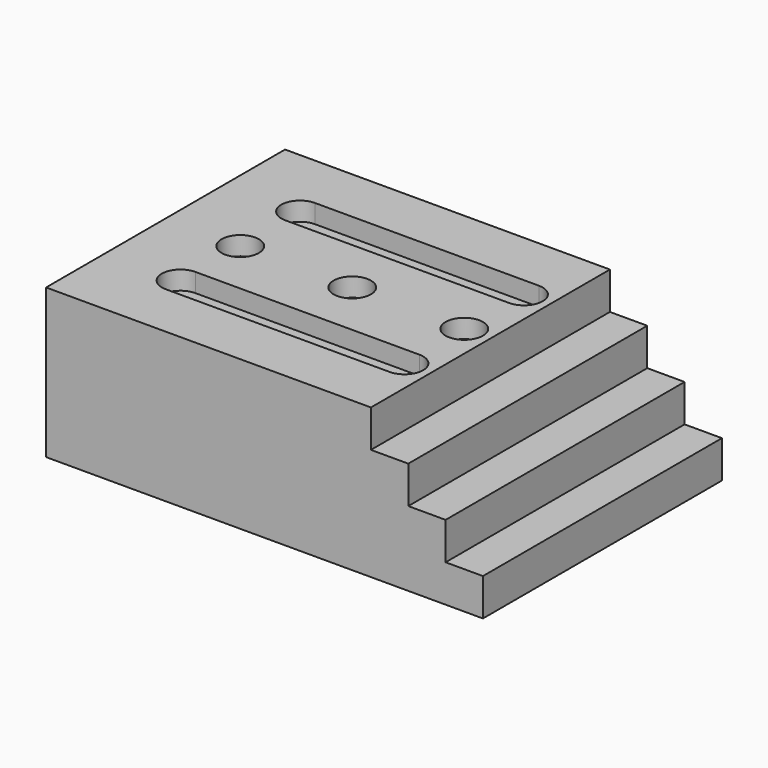
from build123d import *

# Parameters (mm, degrees)
F1_DEPTH = 101.6
F3_DEPTH = 6.35
F4_R     = 3.175
F5_DEPTH = 50.801
F6_R     = 6.35
F7_DEPTH = 6.35


with BuildPart() as f1:
    # F0 (on Front) → F1 (new body)
    with BuildSketch(Plane.XZ):
        Polygon((0, 50.8), (0, 0), (148.59, 0), (148.59, 12.7), (135.89, 12.7), (135.89, 25.4), (123.19, 25.4), (123.19, 38.1), (110.49, 38.1), (110.49, 50.8), align=None)
    extrude(amount=F1_DEPTH)

    # F2 (on face) → F3 (cut)
    with BuildSketch(Plane.XY.offset(50.8)):
        with BuildLine():
            ThreePointArc((25.4, -31.75), (29.890128, -29.890128), (31.75, -25.4))
            ThreePointArc((31.75, -25.4), (29.890128, -20.909872), (25.4, -19.05))
            ThreePointArc((25.4, -19.05), (19.05, -25.4), (25.4, -31.75))
        make_face()
        with BuildLine():
            ThreePointArc((25.4, -19.05), (29.890128, -20.909872), (31.75, -25.4))
            ThreePointArc((31.75, -25.4), (29.890128, -29.890128), (25.4, -31.75))
            Line((25.4, -31.75), (101.6, -31.75))
            ThreePointArc((101.6, -31.75), (95.25, -25.4), (101.6, -19.05))
            Line((101.6, -19.05), (25.4, -19.05))
        make_face()
        with BuildLine():
            ThreePointArc((107.95, -25.4), (106.090128, -20.909872), (101.6, -19.05))
            ThreePointArc((101.6, -19.05), (95.25, -25.4), (101.6, -31.75))
            ThreePointArc((101.6, -31.75), (106.090128, -29.890128), (107.95, -25.4))
        make_face()
        with BuildLine():
            ThreePointArc((31.75, -76.2), (29.890128, -80.690128), (25.4, -82.55))
            Line((25.4, -82.55), (101.6, -82.55))
            ThreePointArc((101.6, -82.55), (95.25, -76.2), (101.6, -69.85))
            Line((101.6, -69.85), (25.4, -69.85))
            ThreePointArc((25.4, -69.85), (29.890128, -71.709872), (31.75, -76.2))
        make_face()
        with BuildLine():
            ThreePointArc((25.4, -69.85), (19.05, -76.2), (25.4, -82.55))
            ThreePointArc((25.4, -82.55), (29.890128, -80.690128), (31.75, -76.2))
            ThreePointArc((31.75, -76.2), (29.890128, -71.709872), (25.4, -69.85))
        make_face()
        with BuildLine():
            ThreePointArc((101.6, -69.85), (95.25, -76.2), (101.6, -82.55))
            ThreePointArc((101.6, -82.55), (106.090128, -80.690128), (107.95, -76.2))
            ThreePointArc((107.95, -76.2), (106.090128, -71.709872), (101.6, -69.85))
        make_face()
    extrude(amount=-F3_DEPTH, mode=Mode.SUBTRACT)

    # F4 (on face) → F5 (cut, through all)
    with BuildSketch(Plane.XY.offset(50.8)):
        with Locations((101.6, -50.8)):
            Circle(F4_R)
        with Locations((63.5, -50.8)):
            Circle(F4_R)
        with BuildLine():
            ThreePointArc((25.4, -28.575), (27.645064, -27.645064), (28.575, -25.4))
            ThreePointArc((28.575, -25.4), (27.645064, -23.154936), (25.4, -22.225))
            ThreePointArc((25.4, -22.225), (22.225, -25.4), (25.4, -28.575))
        make_face()
        with BuildLine():
            ThreePointArc((25.4, -22.225), (27.645064, -23.154936), (28.575, -25.4))
            ThreePointArc((28.575, -25.4), (27.645064, -27.645064), (25.4, -28.575))
            Line((25.4, -28.575), (101.6, -28.575))
            ThreePointArc((101.6, -28.575), (98.425, -25.4), (101.6, -22.225))
            Line((101.6, -22.225), (25.4, -22.225))
        make_face()
        with BuildLine():
            ThreePointArc((104.775, -25.4), (103.845064, -23.154936), (101.6, -22.225))
            ThreePointArc((101.6, -22.225), (98.425, -25.4), (101.6, -28.575))
            ThreePointArc((101.6, -28.575), (103.845064, -27.645064), (104.775, -25.4))
        make_face()
        with Locations((25.4, -50.8)):
            Circle(F4_R)
        with BuildLine():
            ThreePointArc((25.4, -79.375), (27.645064, -78.445064), (28.575, -76.2))
            ThreePointArc((28.575, -76.2), (27.645064, -73.954936), (25.4, -73.025))
            ThreePointArc((25.4, -73.025), (22.225, -76.2), (25.4, -79.375))
        make_face()
        with BuildLine():
            ThreePointArc((25.4, -73.025), (27.645064, -73.954936), (28.575, -76.2))
            ThreePointArc((28.575, -76.2), (27.645064, -78.445064), (25.4, -79.375))
            Line((25.4, -79.375), (101.6, -79.375))
            ThreePointArc((101.6, -79.375), (98.425, -76.2), (101.6, -73.025))
            Line((101.6, -73.025), (25.4, -73.025))
        make_face()
        with BuildLine():
            ThreePointArc((104.775, -76.2), (103.845064, -73.954936), (101.6, -73.025))
            ThreePointArc((101.6, -73.025), (98.425, -76.2), (101.6, -79.375))
            ThreePointArc((101.6, -79.375), (103.845064, -78.445064), (104.775, -76.2))
        make_face()
    extrude(amount=-F5_DEPTH, mode=Mode.SUBTRACT)

    # F6 (on face) → F7 (cut)
    with BuildSketch(Plane.XY.offset(50.8)):
        with Locations((101.6, -50.8)):
            Circle(F6_R)
        with Locations((63.5, -50.8)):
            Circle(F6_R)
        with Locations((25.4, -50.8)):
            Circle(F6_R)
    extrude(amount=-F7_DEPTH, mode=Mode.SUBTRACT)


solid = f1.part
